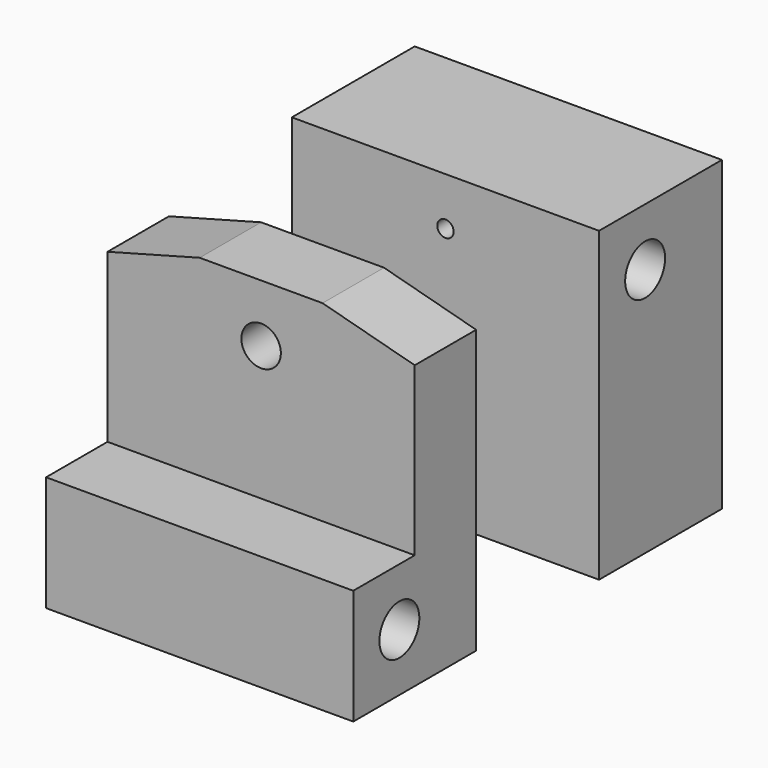
from build123d import *

# Parameters (mm, degrees)
F0_W      = 50.8
F0_H      = 50.8
F0_R      = 4.1275
F1_DEPTH  = 25.4
F3_D      = 8.255
F6_DEPTH  = 25.4
F8_D      = 6.5278
F9_W      = 12.7
F9_H      = 27.6664543073
F9_H_2    = 4.0835456927
F10_DEPTH = 50.801
F12_D     = 8.255
F14_D     = 2.7051
F14_DEPTH = 15.875
F14_TIP   = 0.8126940303


with BuildPart() as f1:
    # F0 (on Front) → F1 (new body)
    with BuildSketch(Plane.XZ):
        Rectangle(F0_W, F0_H)
        with Locations((0, -6.35)):
            Circle(F0_R, mode=Mode.SUBTRACT)
    extrude(amount=F1_DEPTH)

    # F3 (through all)
    with Locations(Plane.YZ.offset(25.4)):
        with Locations((-15.875, 15.875)):
            Hole(F3_D / 2)

    # F14
    with Locations(Plane.XZ.offset(25.4)):
        with Locations((0, 17.4498)):
            Hole(F14_D / 2, depth=F14_DEPTH)
            with Locations((0, 0, -(F14_DEPTH + F14_TIP / 2))):  # 118° drill point
                Cone(0, F14_D / 2, F14_TIP, mode=Mode.SUBTRACT)


with BuildPart() as f6:
    # F5 (on offset) → F6 (new body)
    with BuildSketch(Plane.XZ.offset(50.8)):
        Polygon((25.4, 21.3164543073), (10.16, 25.4), (-10.16, 25.4), (-25.4, 21.3164543073), (-25.4, -25.4), (25.4, -25.4), align=None)
    extrude(amount=F6_DEPTH)

    # F8 (through all)
    with Locations(Plane.XZ.offset(76.2)):
        with Locations((0, 15.875)):
            Hole(F8_D / 2)

    # F9 (on face) → F10 (cut, through all)
    with BuildSketch(Plane.YZ.offset(25.4)):
        with Locations((-69.85, 7.4832271537)):
            Rectangle(F9_W, F9_H)
        with Locations((-69.85, 23.3582271537)):
            Rectangle(F9_W, F9_H_2)
    extrude(amount=-F10_DEPTH, mode=Mode.SUBTRACT)

    # F12 (through all)
    with Locations(Plane.YZ.offset(25.4)):
        with Locations((-66.675, -15.875)):
            Hole(F12_D / 2)


solid = Compound([f1.part, f6.part])
